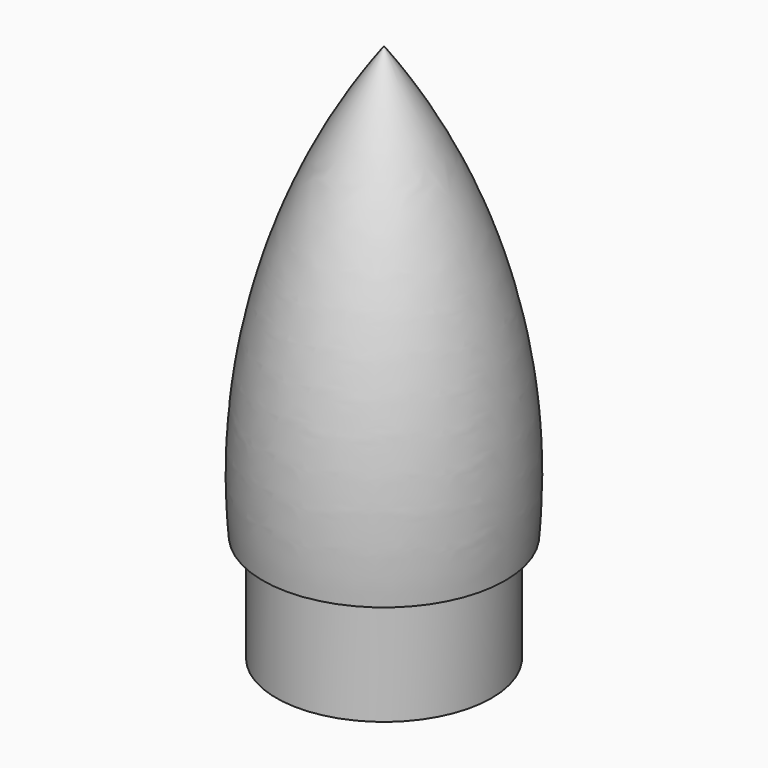
from build123d import *


with BuildPart() as f1:
    # F0 (on Front) → F1 (revolve)
    with BuildSketch(Plane.XZ):
        with BuildLine():
            Line((0, 63.5), (0, 60.767281))
            ThreePointArc((0, 60.767281), (10.346162, 38.613209), (12.817168, 14.2875))
            Line((12.817168, 14.2875), (11.1125, 14.2875))
            Line((11.1125, 14.2875), (11.1125, 0))
            Line((11.1125, 0), (12.7, 0))
            Line((12.7, 0), (12.7, 12.7))
            Line((12.7, 12.7), (14.2875, 12.7))
            ThreePointArc((14.2875, 12.7), (11.774298, 39.402342), (0, 63.5))
        make_face()
    revolve(axis=Axis((0, 0, 31.75), (0, 0, 1)))


solid = f1.part
